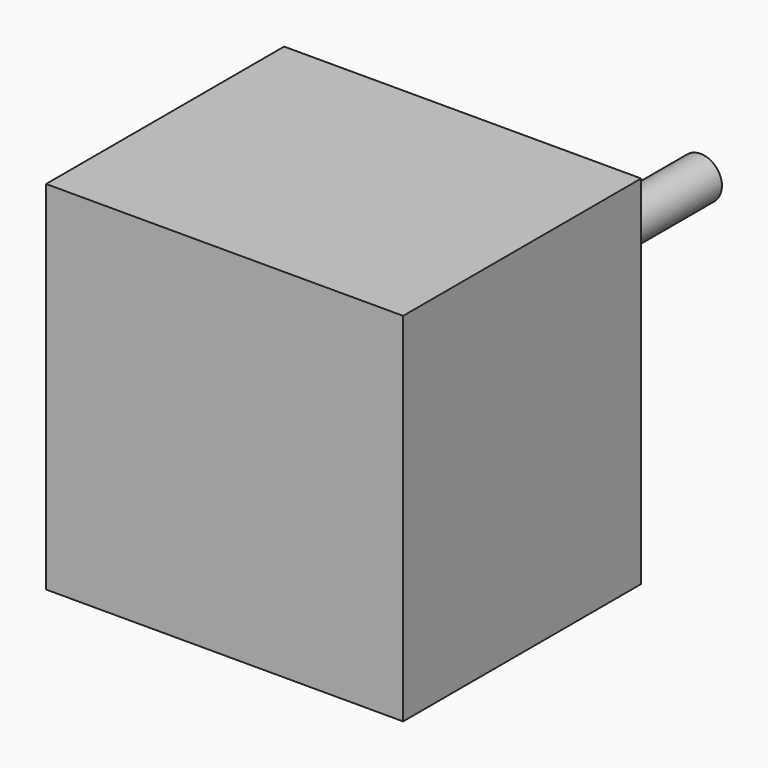
from build123d import *

# Parameters (mm, degrees)
F0_W     = 42
F0_H     = 42
F0_R     = 2.5
F1_DEPTH = 35
F2_DEPTH = 35


with BuildPart() as f1:
    # F0 (on Front) → F1 (new body)
    with BuildSketch(Plane.XZ):
        Rectangle(F0_W, F0_H)
        Circle(F0_R, mode=Mode.SUBTRACT)
        Circle(F0_R)
    extrude(amount=F1_DEPTH)

    # F0 (on Front) → F2 (join)
    with BuildSketch(Plane.XZ):
        Circle(F0_R)
    extrude(amount=-F2_DEPTH)


solid = f1.part
